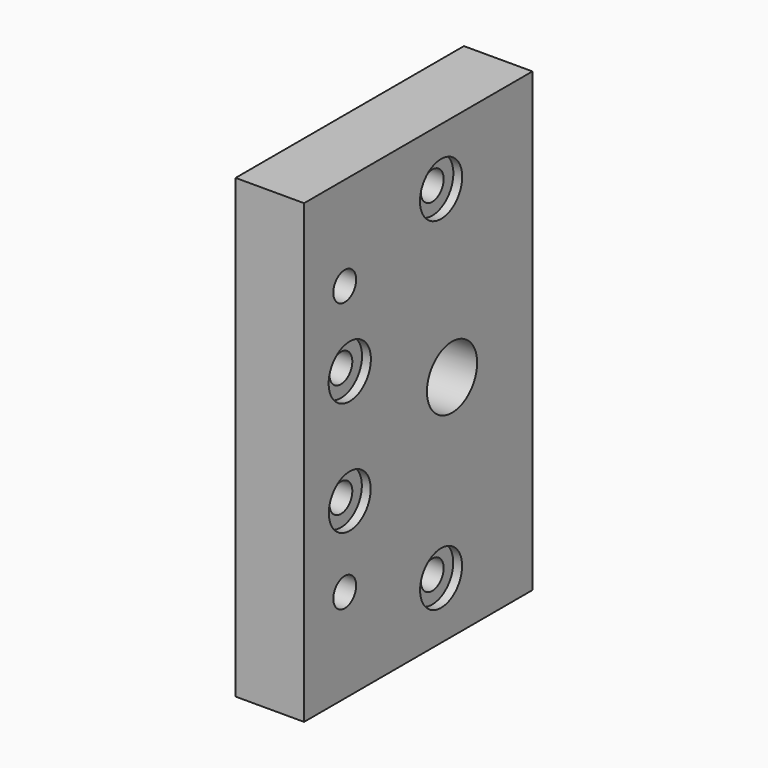
from build123d import *

# Parameters (mm, degrees)
SKETCH111_W     = 80
SKETCH111_H     = 50
SKETCH111_R     = 2.5
SKETCH111_R_2   = 5.5
PAD036_DEPTH    = 12
SKETCH112_R     = 2.5
POCKET071_DEPTH = 11
SKETCH113_R     = 8.05
POCKET072_DEPTH = 4.5
SKETCH114_R     = 4.6
SKETCH114_R_2   = 4.624594
SKETCH114_R_3   = 4.583454
SKETCH114_R_4   = 4.624604
POCKET073_DEPTH = 1.55


with BuildPart() as part:
    # Sketch111 → Pad036 (new body)
    with BuildSketch(Plane(origin=(352, -10, 180), x_dir=(0, 0, 1), z_dir=(-1, 0, 0))):
        with Locations((40, 25)):
            Rectangle(SKETCH111_W, SKETCH111_H)
        with Locations((10, 30)):
            Circle(SKETCH111_R, mode=Mode.SUBTRACT)
        with Locations((30, 10)):
            Circle(SKETCH111_R, mode=Mode.SUBTRACT)
        with Locations((16.4, 8.9)):
            Circle(SKETCH111_R, mode=Mode.SUBTRACT)
        with Locations((50, 10)):
            Circle(SKETCH111_R, mode=Mode.SUBTRACT)
        with Locations((63.6, 8.9)):
            Circle(SKETCH111_R, mode=Mode.SUBTRACT)
        with Locations((70, 30)):
            Circle(SKETCH111_R, mode=Mode.SUBTRACT)
        with Locations((40, 32.4)):
            Circle(SKETCH111_R_2, mode=Mode.SUBTRACT)
    extrude(amount=PAD036_DEPTH)

    # Sketch112 → Pocket071 (cut)
    with BuildSketch(Plane(origin=(352, 40, 180), x_dir=(0, 0, -1), z_dir=(0, 1, 0))):
        with Locations((-30.033846, 5.850095)):
            Circle(SKETCH112_R)
        with Locations((-50.003807, 5.788844)):
            Circle(SKETCH112_R)
    extrude(amount=-POCKET071_DEPTH, mode=Mode.SUBTRACT)

    # Sketch113 → Pocket072 (cut)
    with BuildSketch(Plane(origin=(340, -10, 180), x_dir=(0, 0, 1), z_dir=(-1, 0, 0))):
        with Locations((40, 32.4)):
            Circle(SKETCH113_R)
    extrude(amount=-POCKET072_DEPTH, mode=Mode.SUBTRACT)

    # Sketch114 → Pocket073 (cut)
    with BuildSketch(Plane(origin=(352, -10, 180), x_dir=(0, 0, 1), z_dir=(1, 0, 0))):
        with Locations((10, -30)):
            Circle(SKETCH114_R)
        with Locations((70, -30)):
            Circle(SKETCH114_R_2)
        with Locations((30, -10)):
            Circle(SKETCH114_R_3)
        with Locations((50, -10)):
            Circle(SKETCH114_R_4)
    extrude(amount=-POCKET073_DEPTH, mode=Mode.SUBTRACT)


solid = part.part
